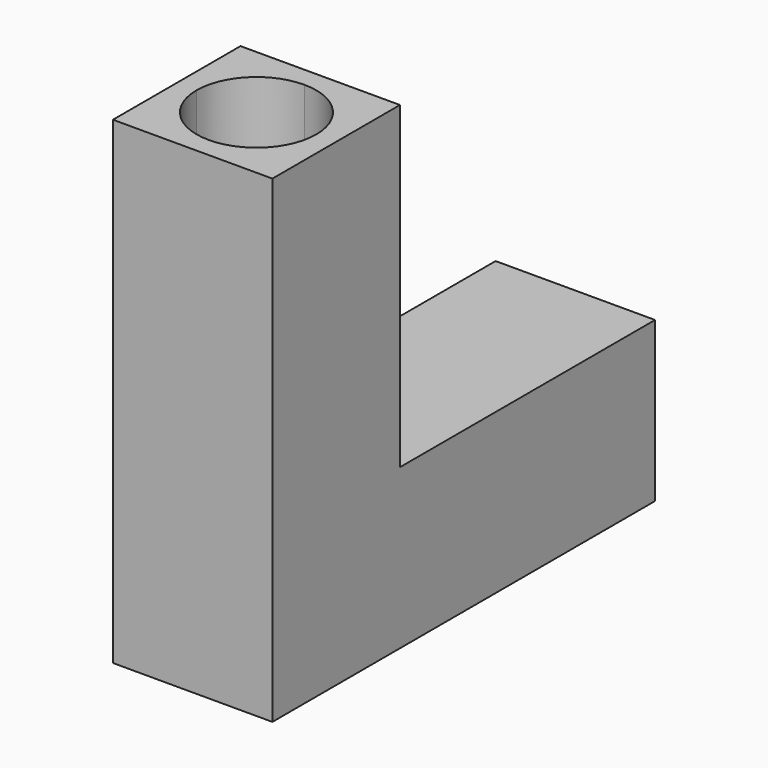
from build123d import *

# Parameters (mm, degrees)
F0_W     = 25.4
F0_H     = 25.4
F1_DEPTH = 76.2
F2_W     = 25.4
F2_H     = 25.4
F3_DEPTH = 50.8
F5_DEPTH = 69.85
F7_R     = 9.525
F8_DEPTH = 69.85


with BuildPart() as f1:
    # F0 (on Front) → F1 (new body)
    with BuildSketch(Plane.XZ):
        with Locations((0.0199213878, -1.3326740591)):
            Rectangle(F0_W, F0_H)
    extrude(amount=F1_DEPTH)

    # F2 (on face) → F3 (join)
    with BuildSketch(Plane.XY.offset(11.3673259409)):
        with Locations((0.0199213878, -63.5)):
            Rectangle(F2_W, F2_H)
    extrude(amount=F3_DEPTH)

    # F4 (on face) → F5 (cut)
    with BuildSketch(Plane(origin=(0, 0, 0), x_dir=(-1, 0, 0), z_dir=(0, 1, 0))):
        with BuildLine():
            ThreePointArc((-0.0199213878, -10.8576740591), (6.715270703, -8.0678661499), (9.5050786122, -1.3326740591))
            Line((9.5050786122, -1.3326740591), (-0.0199213878, -1.3326740591))
            Line((-0.0199213878, -1.3326740591), (-0.0199213878, -10.8576740591))
        make_face()
        with BuildLine():
            Line((-0.0199213878, -10.8576740591), (-0.0199213878, -1.3326740591))
            Line((-0.0199213878, -1.3326740591), (-9.5449213878, -1.3326740591))
            ThreePointArc((-9.5449213878, -1.3326740591), (-6.7551134786, -8.0678661499), (-0.0199213878, -10.8576740591))
        make_face()
        with BuildLine():
            Line((-0.0199213878, -1.3326740591), (9.5050786122, -1.3326740591))
            ThreePointArc((9.5050786122, -1.3326740591), (-0.0199213878, 8.1923259409), (-9.5449213878, -1.3326740591))
            Line((-9.5449213878, -1.3326740591), (-0.0199213878, -1.3326740591))
        make_face()
    extrude(amount=-F5_DEPTH, mode=Mode.SUBTRACT)

    # F7
    f7_edges = [f1.edges().sort_by_distance(p)[0] for p in [
        (9.544921, -69.85, -1.332674),
    ]]
    fillet(f7_edges, radius=F7_R)

    # F6 (on face) → F8 (cut)
    with BuildSketch(Plane.XY.offset(62.1673259409)):
        with BuildLine():
            ThreePointArc((9.5449213878, -63.5), (6.7551134786, -56.7648079092), (0.0199213878, -53.975))
            Line((0.0199213878, -53.975), (0.0199213878, -63.5))
            Line((0.0199213878, -63.5), (0.0199213878, -73.025))
            ThreePointArc((0.0199213878, -73.025), (6.7551134786, -70.2351920908), (9.5449213878, -63.5))
        make_face()
        with BuildLine():
            Line((0.0199213878, -73.025), (0.0199213878, -63.5))
            Line((0.0199213878, -63.5), (-9.5050786122, -63.5))
            ThreePointArc((-9.5050786122, -63.5), (-6.715270703, -70.2351920908), (0.0199213878, -73.025))
        make_face()
        with BuildLine():
            Line((0.0199213878, -63.5), (0.0199213878, -53.975))
            ThreePointArc((0.0199213878, -53.975), (-6.715270703, -56.7648079092), (-9.5050786122, -63.5))
            Line((-9.5050786122, -63.5), (0.0199213878, -63.5))
        make_face()
    extrude(amount=-F8_DEPTH, mode=Mode.SUBTRACT)


solid = f1.part
